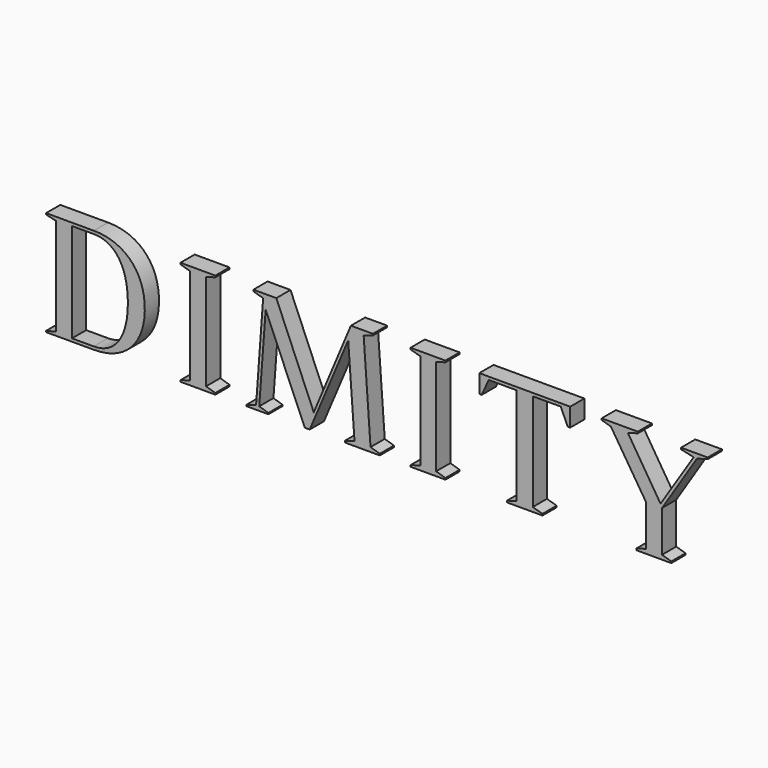
from build123d import *

# Parameters (mm, degrees)
F1_DEPTH = 10


with BuildPart() as f1:
    # F0 (on Front) → F1 (new body)
    with BuildSketch(Plane.XZ):
        with BuildLine():
            Line((-159.3991003414, 70.1133744277), (-186.3090163992, 70.1133744277))
            Line((-186.3090163992, 70.1133744277), (-186.3090163992, 69.353283572))
            Line((-186.3090163992, 69.353283572), (-180.8257710277, 68.0881088784))
            Line((-180.8257710277, 68.0881088784), (-180.8257710277, 13.0881088784))
            Line((-180.8257710277, 13.0881088784), (-186.3090163992, 11.7379363154))
            Line((-186.3090163992, 11.7379363154), (-186.3090163992, 11.0640792311))
            Line((-186.3090163992, 11.0640792311), (-159.3991003414, 11.0640792311))
            add(Edge.make_bspline(
                [(-159.3991003414, 11.0640792311), (-142.5276043154, 11.0640792311), (-130.71769879, 22.0293854751), (-130.71769879, 40.5881088784)],
                knots=[0, 0, 0, 0, 1, 1, 1, 1], degree=3))
            add(Edge.make_bspline(
                [(-130.71769879, 40.5881088784), (-130.71769879, 58.978110438), (-142.5276043154, 70.1133744277), (-159.3991003414, 70.1133744277)],
                knots=[0, 0, 0, 0, 1, 1, 1, 1], degree=3))
        make_face()
        with BuildLine():
            Line((-171.7157725872, 12.75056909), (-171.7157725872, 68.4256553716))
            Line((-171.7157725872, 68.4256553716), (-159.3991003414, 68.4256553716))
            add(Edge.make_bspline(
                [(-159.3991003414, 68.4256553716), (-148.2633916058, 68.4256553716), (-140.250243828, 59.1466378451), (-140.250243828, 40.5043402061)],
                knots=[0, 0, 0, 0, 1, 1, 1, 1], degree=3))
            add(Edge.make_bspline(
                [(-140.250243828, 40.5043402061), (-140.250243828, 21.9456168028), (-148.2633916058, 12.75056909), (-159.3991003414, 12.75056909)],
                knots=[0, 0, 0, 0, 1, 1, 1, 1], degree=3))
            Line((-159.3991003414, 12.75056909), (-171.7157725872, 12.75056909))
        make_face(mode=Mode.SUBTRACT)
    extrude(amount=F1_DEPTH)


with BuildPart() as f1b:
    # F0 (on Front) → F1, piece 2 (new body)
    with BuildSketch(Plane.XZ):
        Polygon((-90.98110539, 70.1133744277), (-110.6375130752, 70.1133744277), (-110.6375130752, 69.2695148996), (-105.1530362715, 67.666793713), (-105.1530362715, 13.5094240439), (-110.6375130752, 11.906709562), (-110.6375130752, 11.0640792311), (-90.98110539, 11.0640792311), (-90.98110539, 11.906709562), (-96.2118043729, 13.5094240439), (-96.2118043729, 67.666793713), (-90.98110539, 69.2695148996), align=None)
    extrude(amount=F1_DEPTH)


with BuildPart() as f1c:
    # F0 (on Front) → F1, piece 3 (new body)
    with BuildSketch(Plane.XZ):
        Polygon((-56.6476807507, 70.1133744277), (-69.5544347038, 70.1133744277), (-69.5544347038, 69.2695148996), (-64.0711893322, 67.666793713), (-68.0367180914, 13.3406507973), (-73.5187342658, 11.7379363154), (-73.5187342658, 11.0640792311), (-61.1182933476, 11.0640792311), (-61.1182933476, 11.7379363154), (-66.265228128, 13.3406507973), (-62.637245862, 62.4373239273), (-40.6204934684, 11.0640792311), (-37.8363640257, 11.0640792311), (-16.1571581253, 62.3523193531), (-12.6129445316, 13.5094240439), (-18.0974191003, 11.906709562), (-18.0974191003, 11.0640792311), (1.6427550223, 11.0640792311), (1.6427550223, 11.906709562), (-3.5879506653, 13.5094240439), (-7.4672434182, 67.666793713), (-2.2377691627, 69.2695148996), (-2.2377691627, 70.1133744277), (-14.6382100808, 70.1133744277), (-35.5585632623, 20.3428509181), align=None)
    extrude(amount=F1_DEPTH)


with BuildPart() as f1d:
    # F0 (on Front) → F1, piece 4 (new body)
    with BuildSketch(Plane.XZ):
        Polygon((38.5952256843, 70.1133744277), (18.9400494312, 70.1133744277), (18.9400494312, 69.2695148996), (24.4232948028, 67.666793713), (24.4232948028, 13.5094240439), (18.9400494312, 11.906709562), (18.9400494312, 11.0640792311), (38.5952256843, 11.0640792311), (38.5952256843, 11.906709562), (33.3657581335, 13.5094240439), (33.3657581335, 67.666793713), (38.5952256843, 69.2695148996), align=None)
    extrude(amount=F1_DEPTH)


with BuildPart() as f1e:
    # F0 (on Front) → F1, piece 5 (new body)
    with BuildSketch(Plane.XZ):
        Polygon((108.8660231118, 70.1133744277), (57.6615494273, 70.1133744277), (57.6615494273, 59.7369720966), (59.0104927931, 59.7369720966), (62.9760215523, 68.4256553716), (78.6656690461, 68.4256553716), (78.6656690461, 13.5094240439), (73.1824236746, 11.906709562), (73.1824236746, 11.0640792311), (93.2601442903, 11.0640792311), (93.2601442903, 11.906709562), (87.7768989187, 13.5094240439), (87.7768989187, 68.4256553716), (103.552780184, 68.4256553716), (107.4320751718, 59.7369720966), (108.8660231118, 59.7369720966), align=None)
    extrude(amount=F1_DEPTH)


with BuildPart() as f1f:
    # F0 (on Front) → F1, piece 6 (new body)
    with BuildSketch(Plane.XZ):
        Polygon((146.9148952208, 70.1133744277), (126.5846259815, 70.1133744277), (126.5846259815, 69.2695148996), (131.814100237, 67.666793713), (151.5542765945, 36.7075846935), (151.5542765945, 13.5094240439), (146.0710356927, 11.906709562), (146.0710356927, 11.0640792311), (165.8099806181, 11.0640792311), (165.8099806181, 11.906709562), (160.5805063626, 13.5094240439), (160.5805063626, 36.7075846935), (180.319451288, 67.666793713), (186.3090163992, 69.2695148996), (186.3090163992, 70.1133744277), (171.2944574218, 70.1133744277), (171.2944574218, 69.2695148996), (178.3804172753, 67.666793713), (159.7378760317, 38.5640769962), (141.3478744722, 67.666793713), (146.9148952208, 69.2695148996), align=None)
    extrude(amount=F1_DEPTH)


solid = Compound([f1.part, f1b.part, f1c.part, f1d.part, f1e.part, f1f.part])
